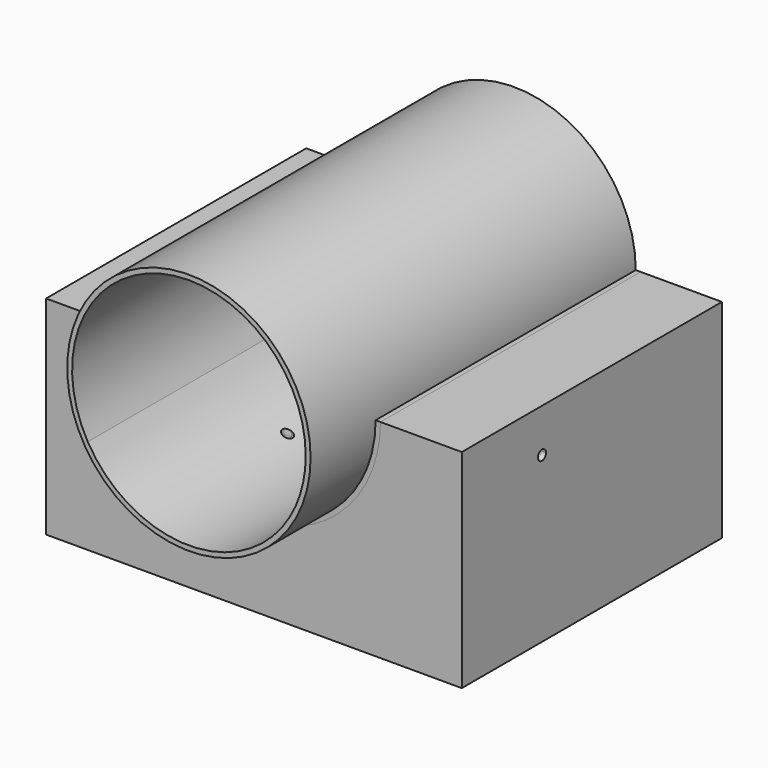
from build123d import *

# Parameters (mm, degrees)
F0_R      = 38.0238
F2_DEPTH  = 127
F4_DEPTH  = 127
F5_DEPTH  = 127
F6_DEPTH  = 127
F9_DEPTH  = 101.6
F12_DEPTH = 101.6


with BuildPart() as f2:
    # F0 (on Front) → F2 (new body)
    with BuildSketch(Plane.XZ):
        Circle(F0_R)
        with BuildLine():
            ThreePointArc((0, 36.4998), (25.809256092, 25.809256092), (36.4998, 0))
            ThreePointArc((36.4998, 0), (35.2560994744, -9.4468433824), (31.6097540331, -18.2499))
            ThreePointArc((31.6097540331, -18.2499), (0, -36.4998), (-31.6097540331, -18.2499))
            ThreePointArc((-31.6097540331, -18.2499), (-31.6097540331, 18.2499), (0, 36.4998))
        make_face(mode=Mode.SUBTRACT)
    extrude(amount=F2_DEPTH)


with BuildPart() as f4:
    # F3 (on Top) → F4 (new body)
    with BuildSketch(Plane.XY):
        with BuildLine():
            ThreePointArc((2.3622, -51.8668), (11.3424561211, -48.1470561211), (15.0622, -39.1668))
            ThreePointArc((15.0622, -39.1668), (11.3424561211, -30.1865438789), (2.3622, -26.4668))
            Line((2.3622, -26.4668), (2.3622, -51.8668))
        make_face()
        with BuildLine():
            Line((2.3622, -51.8668), (2.3622, -26.4668))
            ThreePointArc((2.3622, -26.4668), (-10.3378, -39.1668), (2.3622, -51.8668))
        make_face()
    extrude(amount=-F4_DEPTH)


with BuildPart() as f5:
    # F3 (on Top) → F5 (new body)
    with BuildSketch(Plane.XY):
        with BuildLine():
            ThreePointArc((-12.8905, -70.358), (-13.3554679849, -69.2354679849), (-14.478, -68.7705))
            ThreePointArc((-14.478, -68.7705), (-15.6005320151, -71.4805320151), (-12.8905, -70.358))
        make_face()
    extrude(amount=-F5_DEPTH)


with BuildPart() as f6:
    # F1 (on Right) → F6 (new body)
    with BuildSketch(Plane.YZ):
        with BuildLine():
            ThreePointArc((-70.2816930812, -15.1526582448), (-69.159161066, -14.6876902599), (-68.6941930812, -13.5651582448))
            ThreePointArc((-68.6941930812, -13.5651582448), (-71.4042250963, -12.4426262296), (-70.2816930812, -15.1526582448))
        make_face()
    extrude(amount=F6_DEPTH)


with BuildPart() as f2_1:
    add(f2.part)

    # F7: cut F4, F5, F6
    add(f4.part, mode=Mode.SUBTRACT)
    add(f5.part, mode=Mode.SUBTRACT)
    add(f6.part, mode=Mode.SUBTRACT)


with BuildPart() as f9:
    # F8 (on Front) → F9 (new body)
    with BuildSketch(Plane.XZ):
        with BuildLine():
            ThreePointArc((0, -38.0238), (-26.8868868265, -26.8868868265), (-38.0238, 0))
            Line((-38.0238, 0), (-63.4238, 0))
            Line((-63.4238, 0), (-63.4238, -63.4238))
            Line((-63.4238, -63.4238), (0, -63.4238))
            Line((0, -63.4238), (0, -38.0238))
        make_face()
        with BuildLine():
            Line((63.4238, 0), (38.0238, 0))
            ThreePointArc((38.0238, 0), (26.8868868265, -26.8868868265), (0, -38.0238))
            Line((0, -38.0238), (0, -63.4238))
            Line((0, -63.4238), (63.4238, -63.4238))
            Line((63.4238, -63.4238), (63.4238, 0))
        make_face()
    extrude(amount=F9_DEPTH)

    # F10: cut F5, F4, F6
    add(f5.part, mode=Mode.SUBTRACT)
    add(f4.part, mode=Mode.SUBTRACT)
    add(f6.part, mode=Mode.SUBTRACT)


with BuildPart() as f12:
    # F11 (on Front) → F12 (new body)
    with BuildSketch(Plane.XZ):
        with BuildLine():
            ThreePointArc((39.5478, 0), (0, -39.5478), (-39.5478, 0))
            Line((-39.5478, 0), (-64.9478, 0))
            Line((-64.9478, 0), (-64.9478, -64.9478))
            Line((-64.9478, -64.9478), (64.9478, -64.9478))
            Line((64.9478, -64.9478), (64.9478, 0))
            Line((64.9478, 0), (39.5478, 0))
        make_face()
    extrude(amount=F12_DEPTH)

    # F13: cut F5, F4, F6
    add(f5.part, mode=Mode.SUBTRACT)
    add(f4.part, mode=Mode.SUBTRACT)
    add(f6.part, mode=Mode.SUBTRACT)


solid = Compound([f2_1.part, f9.part, f12.part])
